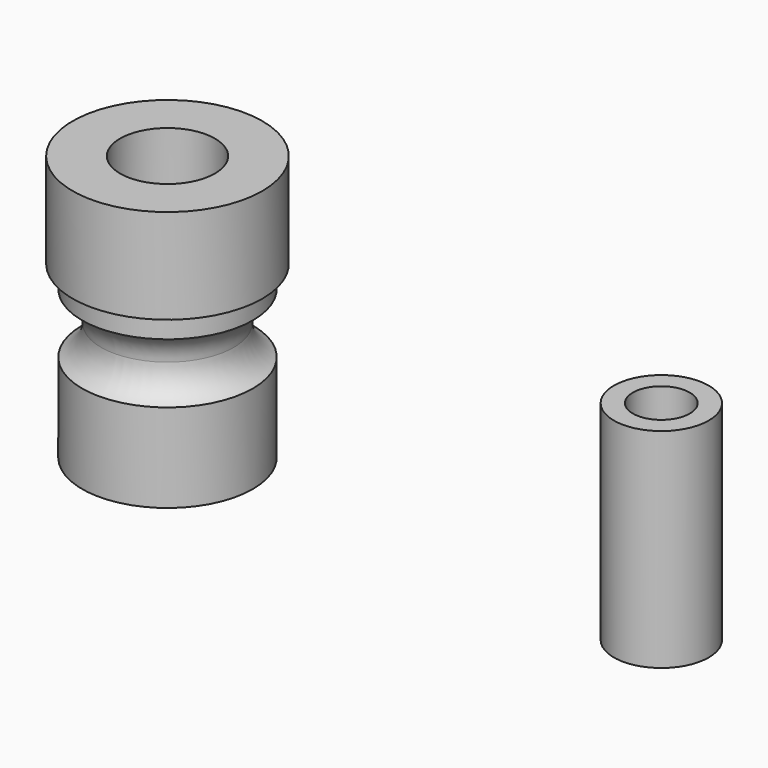
from build123d import *

# Parameters (mm, degrees)
F1_R     = 4.5
F1_R_2   = 2.5
F2_DEPTH = 9
F3_R     = 1.75
F5_R     = 5
F5_R_2   = 4.5
F5_R_3   = 2.5
F6_DEPTH = 5
F7_R     = 2.5
F7_R_2   = 1.5
F8_DEPTH = 11


with BuildPart() as f2:
    # F1 (on Top) → F2 (new body)
    with BuildSketch(Plane.XY):
        Circle(F1_R)
        Circle(F1_R_2, mode=Mode.SUBTRACT)
    extrude(amount=F2_DEPTH)

    # F3 (on Front) → F4 (revolve, cut)
    with BuildSketch(Plane.XZ):
        with Locations((-5.25, 6.25)):
            Circle(F3_R)
    revolve(axis=Axis((0, 0, 0), (0, 0, -1)), mode=Mode.SUBTRACT)


with BuildPart() as f6:
    # F5 (on face) → F6 (new body)
    with BuildSketch(Plane.XY.offset(9)):
        Circle(F5_R)
        Circle(F5_R_2, mode=Mode.SUBTRACT)
        Circle(F5_R_2)
        Circle(F5_R_3, mode=Mode.SUBTRACT)
    extrude(amount=F6_DEPTH)


with BuildPart() as f8:
    # F7 (on Top) → F8 (new body)
    with BuildSketch(Plane.XY):
        with Locations((26.0423235595, 0)):
            Circle(F7_R)
        with Locations((26.0423235595, 0)):
            Circle(F7_R_2, mode=Mode.SUBTRACT)
    extrude(amount=F8_DEPTH)


solid = Compound([f2.part, f6.part, f8.part])
